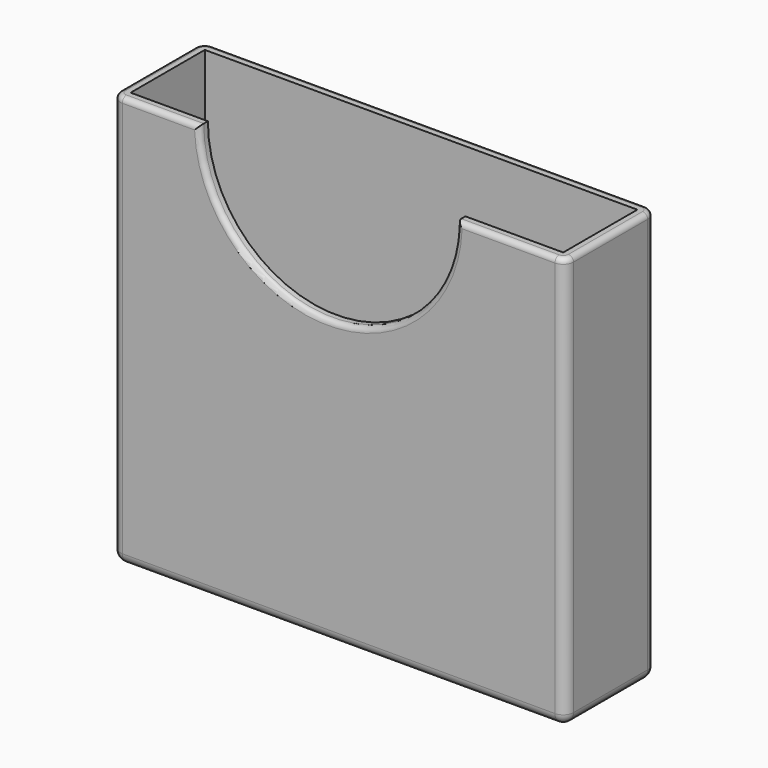
from build123d import *

# Parameters (mm, degrees)
SKETCH_W        = 44
SKETCH_H        = 11
PAD_DEPTH       = 40
SKETCH001_W     = 42
SKETCH001_H     = 9
POCKET_DEPTH    = 39.001
SKETCH002_R     = 12.5
POCKET001_DEPTH = 1
FILLET_R        = 1
FILLET001_R     = 0.5


with BuildPart() as part:
    # Sketch → Pad (new body)
    with BuildSketch(Plane.XY):
        with Locations((22, 5.5)):
            Rectangle(SKETCH_W, SKETCH_H)
    extrude(amount=PAD_DEPTH)

    # Sketch001 → Pocket (cut, through all)
    with BuildSketch(Plane.XY.offset(1)):
        with Locations((22, 5.5)):
            Rectangle(SKETCH001_W, SKETCH001_H)
    extrude(amount=POCKET_DEPTH, mode=Mode.SUBTRACT)

    # Sketch002 (on Face1 of Pocket) → Pocket001 (cut)
    with BuildSketch(Plane.XZ):
        with Locations((21, 40)):
            Circle(SKETCH002_R)
    extrude(amount=-POCKET001_DEPTH, mode=Mode.SUBTRACT)

    # Fillet
    fillet_edges = [part.edges().sort_by_distance(p)[0] for p in [
        (0, 0, 20),
        (0, 11, 20),
        (44, 0, 20),
        (44, 11, 20),
        (44, 5.5, 0),
        (22, 0, 0),
        (22, 11, 0),
        (0, 5.5, 0),
    ]]
    fillet(fillet_edges, radius=FILLET_R)

    # Fillet001
    fillet001_edges = [part.edges().sort_by_distance(p)[0] for p in [
        (21, 0, 27.5),
        (4.75, 0, 40),
        (0, 5.5, 40),
        (0.292893, 0.292893, 40),
        (0.292893, 10.707107, 40),
        (22, 11, 40),
        (44, 5.5, 40),
        (43.707107, 10.707107, 40),
        (43.707107, 0.292893, 40),
        (38.25, 0, 40),
    ]]
    fillet(fillet001_edges, radius=FILLET001_R)


solid = part.part
